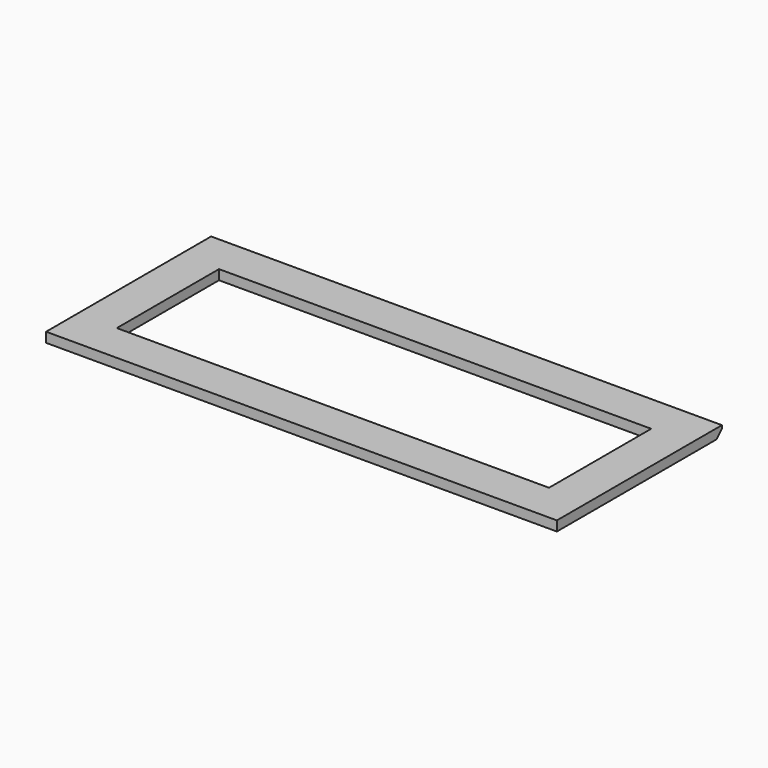
from build123d import *

# Parameters (mm, degrees)
F1_DEPTH = 25.4
F2_SIZE  = 17.78


with BuildPart() as f1:
    # F0 (on Top) → F1 (new body)
    with BuildSketch(Plane.XY):
        Polygon((25.419192, 355.417661), (-76.180808, 457.017661), (-76.180808, -76.382339), (25.419192, 25.217661), align=None)
        Polygon((1244.619192, 457.017661), (-76.180808, 457.017661), (25.419192, 355.417661), (1143.019192, 355.417661), align=None)
        Polygon((1244.619192, -76.382339), (1244.619192, 457.017661), (1143.019192, 355.417661), (1143.019192, 25.217661), align=None)
        Polygon((25.419192, 25.217661), (-76.180808, -76.382339), (1244.619192, -76.382339), (1143.019192, 25.217661), align=None)
    extrude(amount=F1_DEPTH)

    # F2
    f2_edges = [f1.edges().sort_by_distance(p)[0] for p in [
        (584.219192, 457.017661, 0),
    ]]
    chamfer(f2_edges, length=F2_SIZE)


solid = f1.part
